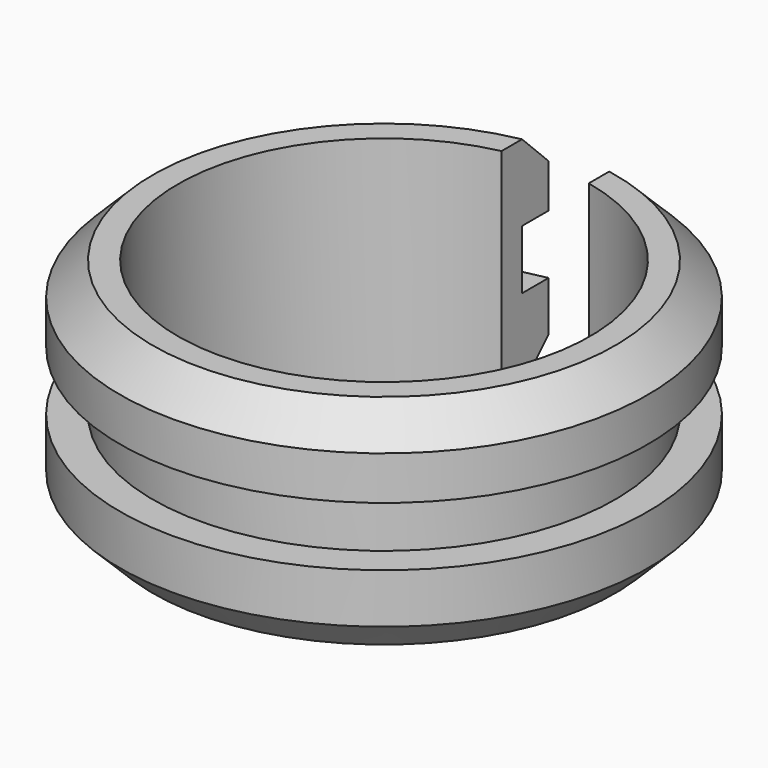
from build123d import *

# Parameters (mm, degrees)
F1_DEPTH = 12.7
F2_W     = 2.116344
F2_H     = 3.450806
F4_SIZE  = 1.905


with BuildPart() as f1:
    # F0 (on Top) → F1 (new body)
    with BuildSketch(Plane.XY):
        with BuildLine():
            ThreePointArc((2.54, 11.729638), (0, -12.0015), (-2.54, 11.729638))
            Line((-2.54, 11.729638), (-2.54, 15.155629))
            ThreePointArc((-2.54, 15.155629), (0, -15.367), (2.54, 15.155629))
            Line((2.54, 15.155629), (2.54, 11.729638))
        make_face()
    extrude(amount=F1_DEPTH)

    # F2 (on Front) → F3 (revolve, cut)
    with BuildSketch(Plane.XZ):
        with Locations((14.520172, 6.529597)):
            Rectangle(F2_W, F2_H)
    revolve(axis=Axis((0, 0, 7.00403), (0, 0, -1)), mode=Mode.SUBTRACT)

    # F4
    f4_edges = [f1.edges().sort_by_distance(p)[0] for p in [
        (0, -15.367, 12.7),
        (0, -15.367, 0),
    ]]
    chamfer(f4_edges, length=F4_SIZE)


solid = f1.part
